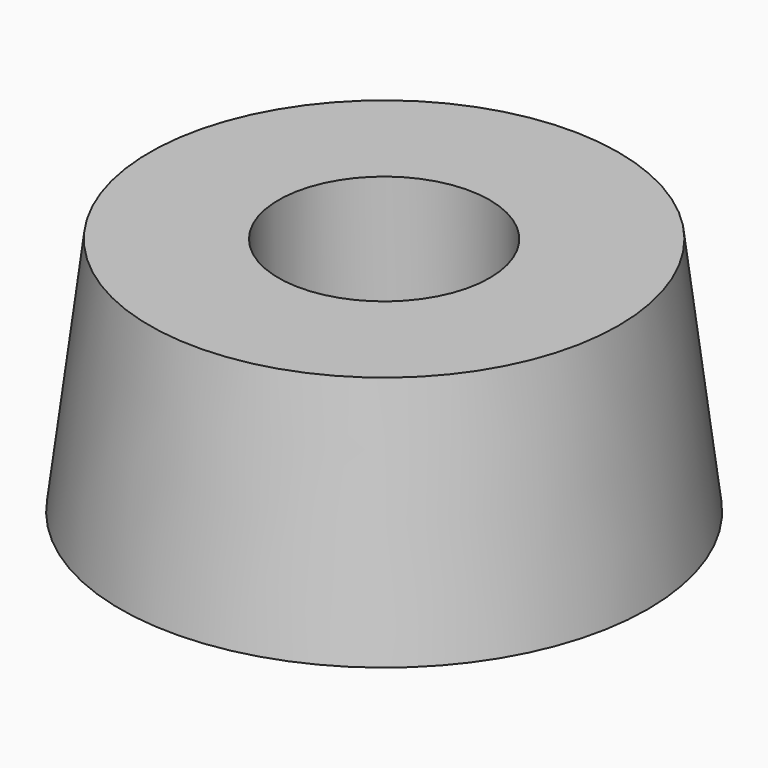
from build123d import *

# Parameters (mm, degrees)
F0_R     = 27.5
F0_R_2   = 11
F1_DEPTH = 25
F1_TAPER = 7
F2_DEPTH = 30


with BuildPart() as f1:
    # F0 (on Top) → F1 (new body)
    with BuildSketch(Plane.XY):
        Circle(F0_R)
        Circle(F0_R_2, mode=Mode.SUBTRACT)
        Circle(F0_R_2)
    extrude(amount=F1_DEPTH, taper=F1_TAPER)

    # F0 (on Top) → F2 (cut, symmetric)
    with BuildSketch(Plane.XY):
        Circle(F0_R_2)
    extrude(amount=F2_DEPTH, both=True, mode=Mode.SUBTRACT)


solid = f1.part
